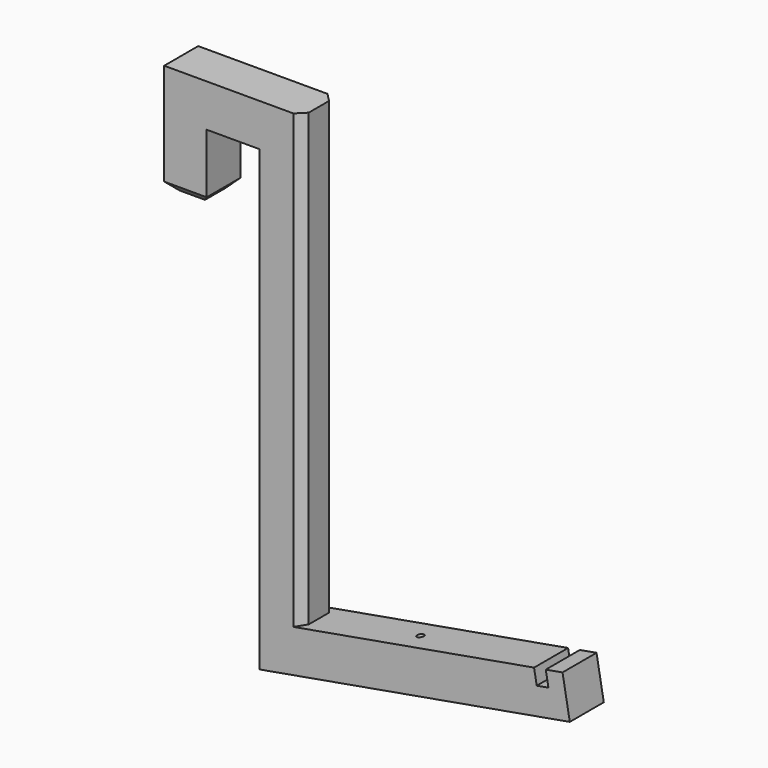
from build123d import *

# Parameters (mm, degrees)
F1_DEPTH = 25
F2_R     = 2
F3_DEPTH = 27
F4_SIZE  = 5


with BuildPart() as f1:
    # F0 (on Front) → F1 (new body)
    with BuildSketch(Plane.XZ):
        Polygon((-56, 134.6547987339), (-56, 69.6547987339), (-31, 69.6547987339), (-31, 109.6547987339), (0, 109.6547987339), (0, -155.3452012661), (0, -159.7533757838), (25, -155.3452012661), (182.569240482, -127.5614928394), (178.2939886904, -103.3153350796), (168.4459111603, -105.0518168562), (170.0087447593, -113.9150866333), (163.1150904882, -115.130623877), (161.5522568892, -106.2673540999), (25, -130.3452012661), (25, 134.6547987339), align=None)
    extrude(amount=F1_DEPTH)

    # F2 (on face) → F3 (cut)
    with BuildSketch(Plane(origin=(23.0441844496, 0, -130.6900643169), x_dir=(0.984807753, 0, 0.1736481777), z_dir=(-0.1736481777, 0, 0.984807753))):
        with Locations((62.6447827161, -12.5)):
            Circle(F2_R)
    extrude(amount=-F3_DEPTH, mode=Mode.SUBTRACT)

    # F4
    f4_edges = [f1.edges().sort_by_distance(p)[0] for p in [
        (25, -25, 2.154799),
        (25, 0, 2.154799),
        (-43.5, -25, 69.654799),
        (-56, -12.5, 69.654799),
        (-31, -12.5, 69.654799),
        (-43.5, 0, 69.654799),
    ]]
    chamfer(f4_edges, length=F4_SIZE)


solid = f1.part
